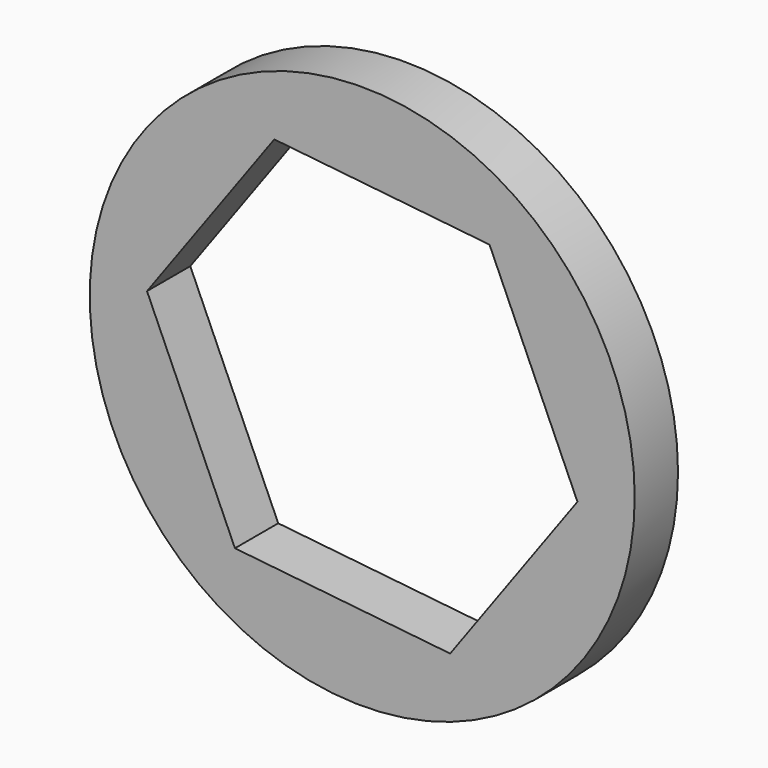
from build123d import *

# Parameters (mm, degrees)
F0_R     = 25.184081
F1_DEPTH = 5


with BuildPart() as f1:
    # F0 (on Front) → F1 (new body)
    with BuildSketch(Plane.XZ):
        with Locations((-5.988164, 8.360833)):
            Circle(F0_R)
        Polygon((5.77527, 24.535554), (13.901273, 6.260761), (2.137839, -9.913961), (-17.751598, -7.813889), (-25.877601, 10.460905), (-14.114167, 26.635627), align=None, mode=Mode.SUBTRACT)
    extrude(amount=F1_DEPTH)


solid = f1.part
